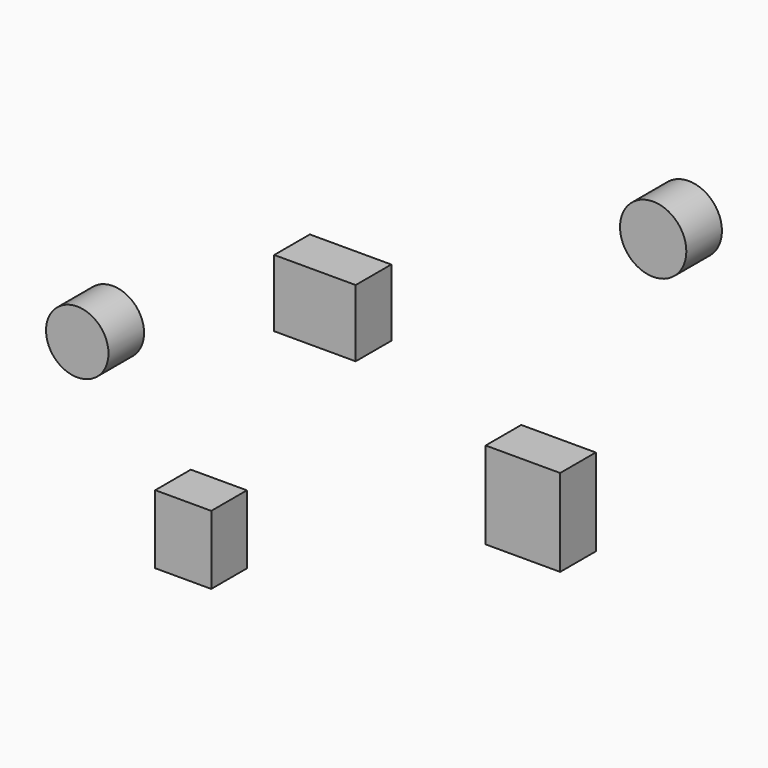
from build123d import *

# Parameters (mm, degrees)
F0_W     = 45.762677
F0_H     = 37.745066
F0_W_2   = 41.867979
F0_H_2   = 48.930663
F0_W_3   = 31.48213
F0_H_3   = 38.621918
F0_R     = 18.632103
F0_R_2   = 17.546271
F1_DEPTH = 25


with BuildPart() as f1:
    # F0 (on Front) → F1 (new body)
    with BuildSketch(Plane.XZ):
        with Locations((-65.073883, 51.157039)):
            Rectangle(F0_W, F0_H)
        with Locations((51.767002, -10.047117)):
            Rectangle(F0_W_2, F0_H_2)
        with Locations((-139.073104, -87.370135)):
            Rectangle(F0_W_3, F0_H_3)
        with Locations((124.954827, 147.070184)):
            Circle(F0_R)
        with Locations((-198.629513, -8.980257)):
            Circle(F0_R_2)
    extrude(amount=F1_DEPTH)


solid = f1.part
